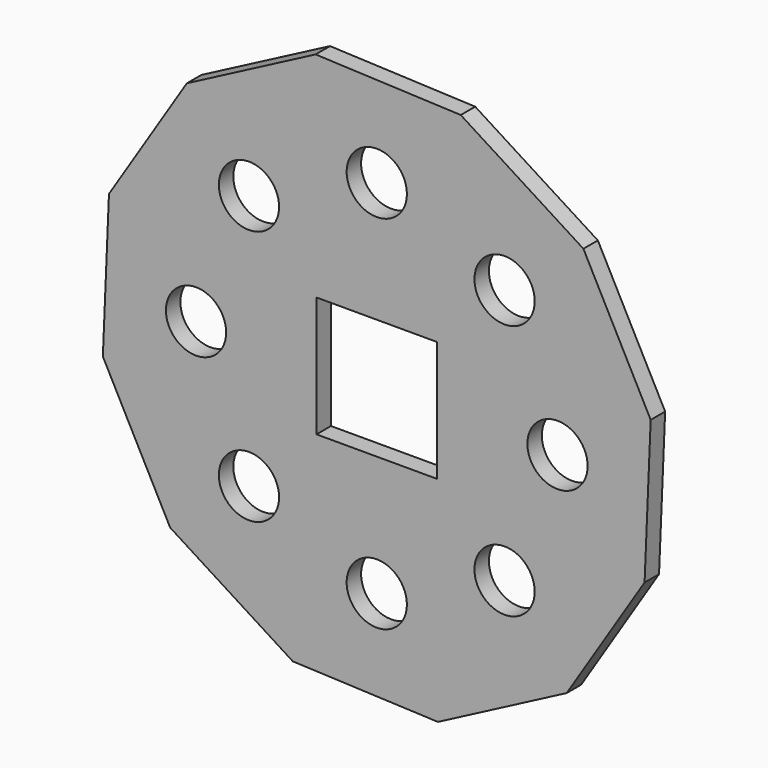
from build123d import *

# Parameters (mm, degrees)
F0_R     = 10
F0_W     = 40
F0_H     = 40
F1_DEPTH = 6


with BuildPart() as f1:
    # F0 (on Front) → F1 (new body)
    with BuildSketch(Plane.XZ):
        Polygon((20.309229, -90.934532), (63.055574, -68.597), (88.906229, -27.878958), (90.934532, 20.309229), (68.597, 63.055574), (27.878958, 88.906229), (-20.309229, 90.934532), (-63.055574, 68.597), (-88.906229, 27.878958), (-90.934532, -20.309229), (-68.597, -63.055574), (-27.878958, -88.906229), align=None)
        with Locations((-42.426407, -42.426407)):
            Circle(F0_R, mode=Mode.SUBTRACT)
        with Locations((0, -60)):
            Circle(F0_R, mode=Mode.SUBTRACT)
        with Locations((42.426407, -42.426407)):
            Circle(F0_R, mode=Mode.SUBTRACT)
        with Locations((-60, 0)):
            Circle(F0_R, mode=Mode.SUBTRACT)
        with Locations((-42.426407, 42.426407)):
            Circle(F0_R, mode=Mode.SUBTRACT)
        Rectangle(F0_W, F0_H, mode=Mode.SUBTRACT)
        with Locations((42.426407, 42.426407)):
            Circle(F0_R, mode=Mode.SUBTRACT)
        with Locations((60, 0)):
            Circle(F0_R, mode=Mode.SUBTRACT)
        with Locations((0, 60)):
            Circle(F0_R, mode=Mode.SUBTRACT)
    extrude(amount=F1_DEPTH)


solid = f1.part
